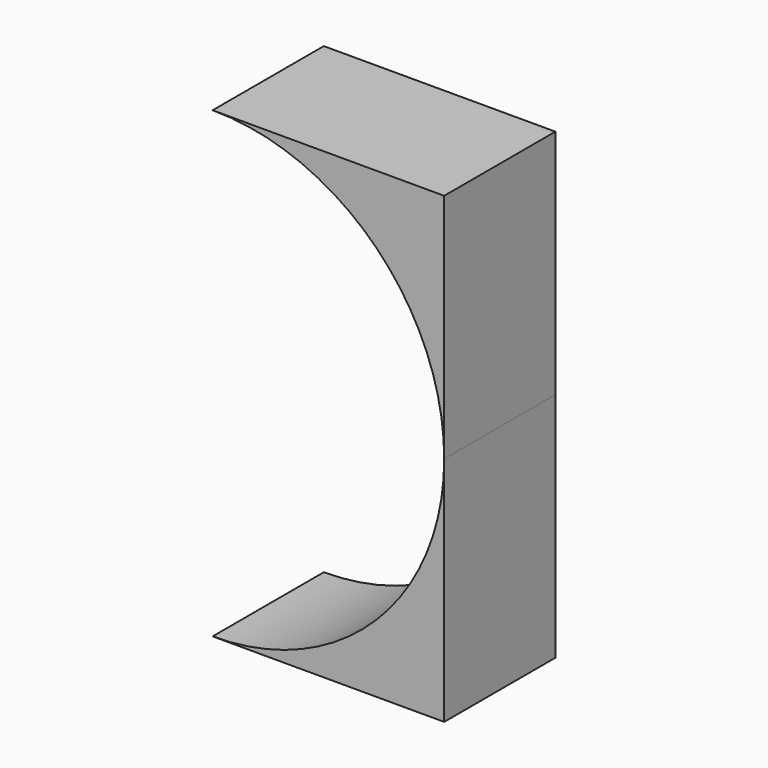
from build123d import *

# Parameters (mm, degrees)
F1_DEPTH = 15


with BuildPart() as f1:
    # F0 (on Front) → F1 (new body)
    with BuildSketch(Plane.XZ):
        with BuildLine():
            Line((70, 0), (70, 25))
            Line((70, 25), (45, 25))
            ThreePointArc((45, 25), (62.67767, 17.67767), (70, 0))
        make_face()
        with BuildLine():
            Line((70, -25), (70, 0))
            ThreePointArc((70, 0), (62.67767, -17.67767), (45, -25))
            Line((45, -25), (70, -25))
        make_face()
    extrude(amount=F1_DEPTH)


solid = f1.part
